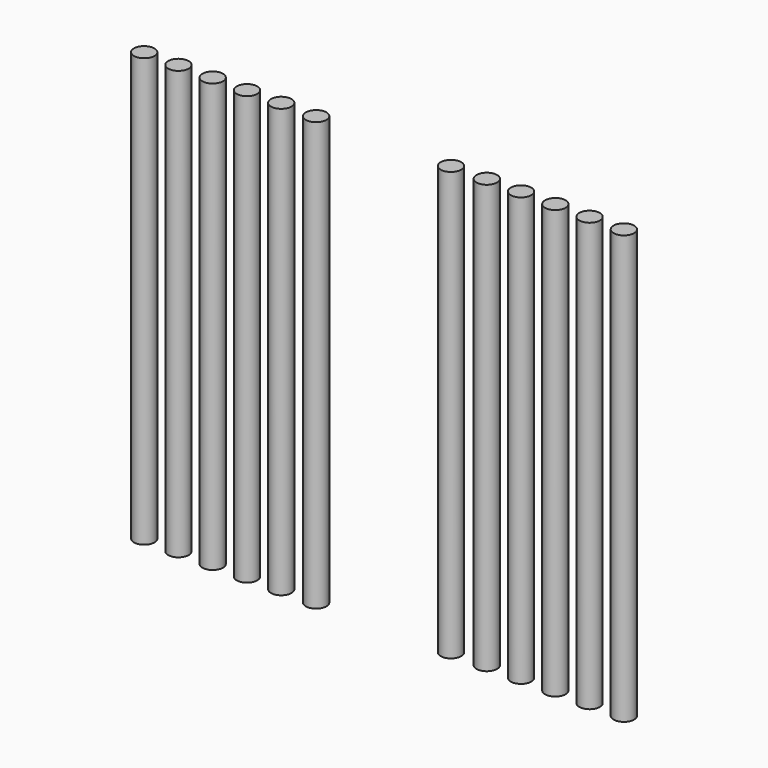
from build123d import *

# Parameters (mm, degrees)
F0_R     = 0.6
F1_DEPTH = 25


with BuildPart() as f1:
    # F0 (on Top) → F1 (new body)
    with BuildSketch(Plane.XY):
        with Locations((6, 0.000284)):
            Circle(F0_R)
        with Locations((8, 0.000284)):
            Circle(F0_R)
        with Locations((10, 0.000284)):
            Circle(F0_R)
        with Locations((12, 0.000284)):
            Circle(F0_R)
        with Locations((14, 0.000284)):
            Circle(F0_R)
        with Locations((3.934548, -0.033542)):
            Circle(F0_R)
        with Locations((-14, 0.000284)):
            Circle(F0_R)
        with Locations((-12, 0.000284)):
            Circle(F0_R)
        with Locations((-10, 0.000284)):
            Circle(F0_R)
        with Locations((-8, 0.000284)):
            Circle(F0_R)
        with Locations((-6, 0.000284)):
            Circle(F0_R)
        with Locations((-3.934548, -0.033542)):
            Circle(F0_R)
    extrude(amount=F1_DEPTH)


solid = f1.part
